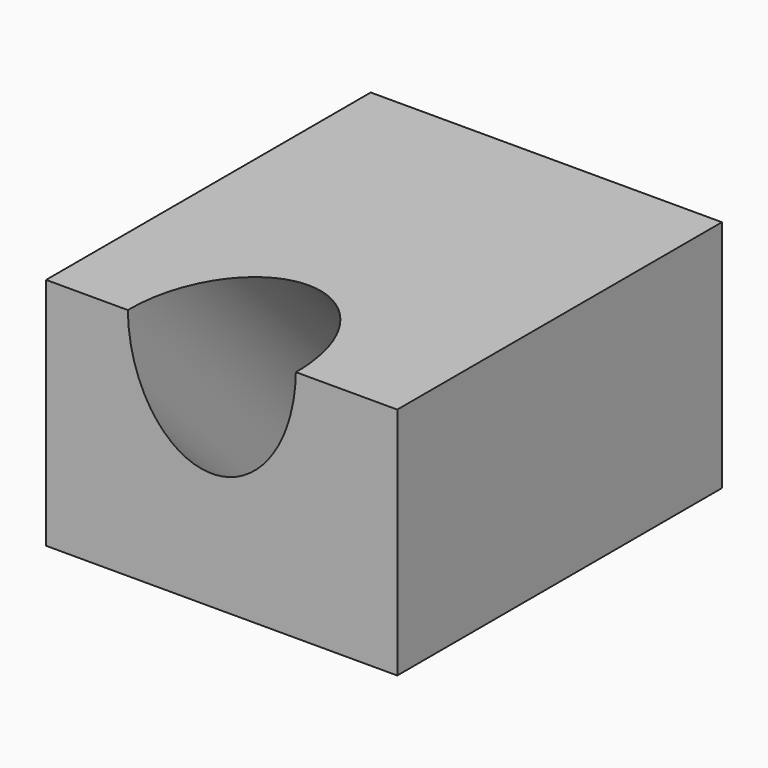
from build123d import *

# Parameters (mm, degrees)
F0_W     = 114.3
F0_H     = 76.2
F1_DEPTH = 66.04
F3_R     = 27.345252
F4_DEPTH = 147.2772


with BuildPart() as f1:
    # F0 (on Front) → F1 (new body, symmetric)
    with BuildSketch(Plane.XZ):
        with Locations((57.15, 38.1)):
            Rectangle(F0_W, F0_H)
    extrude(amount=F1_DEPTH, both=True)

    # F3 (on face) → F4 (cut, through all)
    with BuildSketch(Plane(origin=(0, -71.12, 71.12), x_dir=(1, 0, 0), z_dir=(0, 0.707107, -0.707107))):
        with Locations((53.942356, -7.674762)):
            Circle(F3_R)
    extrude(amount=F4_DEPTH, mode=Mode.SUBTRACT)


solid = f1.part
